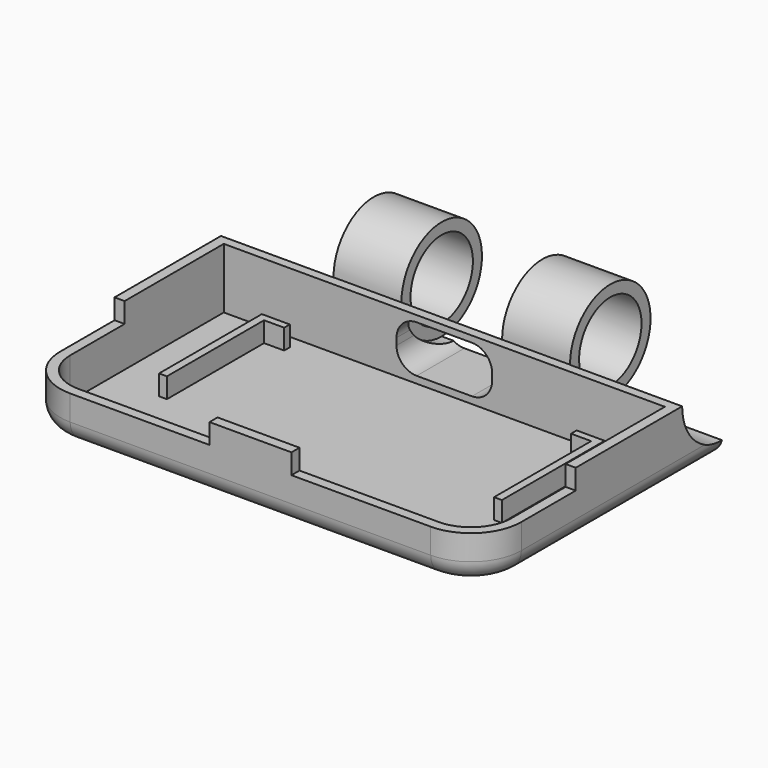
from build123d import *

# Parameters (mm, degrees)
F0_W      = 116.3828
F0_H      = 76.2
F1_DEPTH  = 16.51
F2_R      = 12.7
F3_DEPTH  = 63.5
F4_R      = 12.7
F7_R      = 5.08
F9_DEPTH  = 15.24
F10_R     = 12.7
F11_DEPTH = 12.7
F13_DEPTH = 25.4
F15_DEPTH = 5.08
F16_W     = 47.8547876488
F16_H     = 29.861765301
F17_DEPTH = 5.08


with BuildPart() as f1:
    # F0 (on Top) → F1 (new body)
    with BuildSketch(Plane.XY):
        Rectangle(F0_W, F0_H)
    extrude(amount=-F1_DEPTH)

    # F2 (on Right) → F3 (join, symmetric)
    with BuildSketch(Plane.YZ):
        with Locations((38.1, 0)):
            Circle(F2_R)
    extrude(amount=F3_DEPTH, both=True)

    # F4
    f4_edges = [f1.edges().sort_by_distance(p)[0] for p in [
        (-58.1914, -38.1, -8.255),
        (58.1914, -38.1, -8.255),
    ]]
    fillet(f4_edges, radius=F4_R)

    # F5 (on Top) → F6 (revolve, cut)
    with BuildSketch(Plane.XY):
        Polygon((-63.5, 50.8635), (-63.5, 38.1), (0, 38.1), (63.5, 38.1), (63.5, 50.8635), (29.845, 50.8635), (29.845, 47.9425), (0, 47.9425), (-29.845, 47.9425), (-29.845, 50.8635), align=None)
    revolve(axis=Axis((31.75, 38.1, 0), (1, 0, 0)), mode=Mode.SUBTRACT)

    # F7
    f7_edges = [f1.edges().sort_by_distance(p)[0] for p in [
        (58.1914, 6.35, -16.51),
    ]]
    fillet(f7_edges, radius=F7_R)

    # F8 (on face) → F9 (cut)
    with BuildSketch(Plane.XY):
        with BuildLine():
            Line((55.6514, -23.0505), (55.6514, 23.0505))
            Line((55.6514, 23.0505), (-55.6514, 23.0505))
            Line((-55.6514, 23.0505), (-55.6514, -23.0505))
            Line((-55.6514, -23.0505), (-55.6514, -25.4))
            ThreePointArc((-55.6514, -25.4), (-52.6756048969, -32.5842048969), (-45.4914, -35.56))
            Line((-45.4914, -35.56), (45.4914, -35.56))
            ThreePointArc((45.4914, -35.56), (52.6756048969, -32.5842048969), (55.6514, -25.4))
            Line((55.6514, -25.4), (55.6514, -23.0505))
        make_face()
    extrude(amount=-F9_DEPTH, mode=Mode.SUBTRACT)

    # F10 (on Right) → F11 (cut, symmetric)
    with BuildSketch(Plane.YZ):
        with Locations((38.1, 0)):
            Circle(F10_R)
    extrude(amount=F11_DEPTH, both=True, mode=Mode.SUBTRACT)

    # F12 (on face) → F13 (cut)
    with BuildSketch(Plane.XZ.offset(-23.0505)):
        with BuildLine():
            Line((6.985, -1.605504806), (-6.985, -1.605504806))
            ThreePointArc((-6.985, -1.605504806), (-10.5771024484, -3.0934023576), (-12.065, -6.685504806))
            Line((-12.065, -6.685504806), (-12.065, -8.4159879088))
            ThreePointArc((-12.065, -8.4159879088), (-10.5771024484, -12.0080903572), (-6.985, -13.4959879088))
            Line((-6.985, -13.4959879088), (6.985, -13.4959879088))
            ThreePointArc((6.985, -13.4959879088), (10.5771024484, -12.0080903572), (12.065, -8.4159879088))
            Line((12.065, -8.4159879088), (12.065, -6.685504806))
            ThreePointArc((12.065, -6.685504806), (10.5771024484, -3.0934023576), (6.985, -1.605504806))
        make_face()
    extrude(amount=-F13_DEPTH, mode=Mode.SUBTRACT)

    # F14 (on face) → F15 (join)
    with BuildSketch(Plane.XY.offset(-15.24)):
        Polygon((-41.275, -12.8604971486), (-41.275, 17.78), (-36.195, 17.78), (-36.195, 19.5553619415), (-43.2557910681, 19.5553619415), (-43.2557910681, -12.8604971486), align=None)
        Polygon((36.195, 19.5553619415), (36.195, 17.78), (41.275, 17.78), (41.275, -12.8604971486), (43.2557910681, -12.8604971486), (43.2557910681, 19.5553619415), align=None)
    extrude(amount=F15_DEPTH)

    # F16 (on face) → F17 (cut)
    with BuildSketch(Plane.XY):
        with Locations((-34.2640061756, -23.1691173495)):
            Rectangle(F16_W, F16_H)
        with Locations((34.2640061756, -23.1691173495)):
            Rectangle(F16_W, F16_H)
    extrude(amount=-F17_DEPTH, mode=Mode.SUBTRACT)


solid = f1.part
